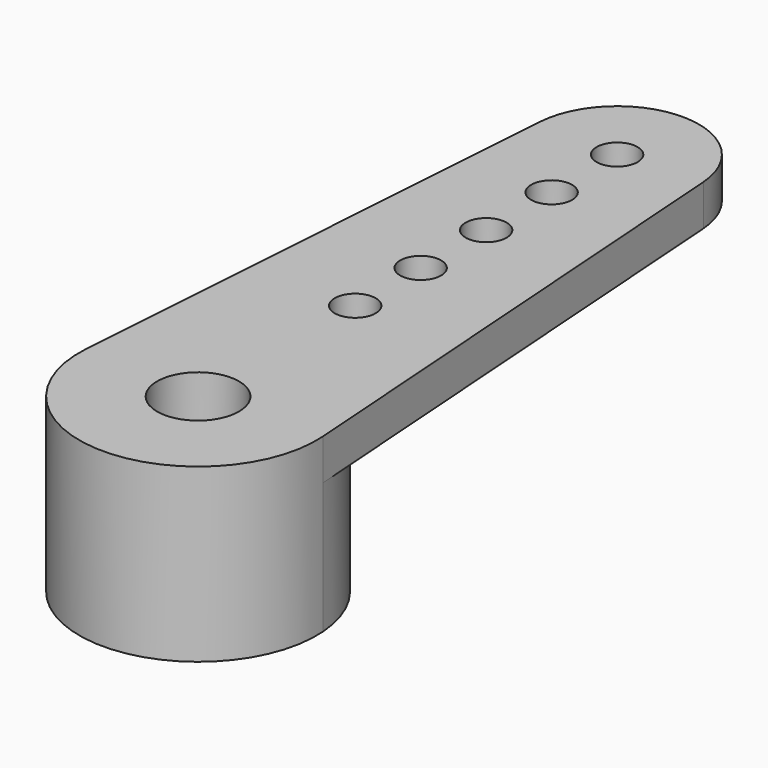
from build123d import *

# Parameters (mm, degrees)
F0_R     = 1
F0_R_2   = 0.5
F1_DEPTH = 4.2
F3_DEPTH = 3.2
F4_R     = 1.85
F4_R_2   = 1
F5_DEPTH = 2.2


with BuildPart() as f1:
    # F0 (on Top) → F1 (new body)
    with BuildSketch(Plane.XY):
        with BuildLine():
            Line((-1.99505, 12.940625), (-2.892823, 0.203906))
            ThreePointArc((-2.892823, 0.203906), (0, -2.9), (2.892823, 0.203906))
            Line((2.892823, 0.203906), (1.99505, 12.940625))
            ThreePointArc((1.99505, 12.940625), (0, 14.8), (-1.99505, 12.940625))
        make_face()
        Circle(F0_R, mode=Mode.SUBTRACT)
        with Locations((0, 4.8)):
            Circle(F0_R_2, mode=Mode.SUBTRACT)
        with Locations((0, 6.8)):
            Circle(F0_R_2, mode=Mode.SUBTRACT)
        with Locations((0, 8.8)):
            Circle(F0_R_2, mode=Mode.SUBTRACT)
        with Locations((0, 10.8)):
            Circle(F0_R_2, mode=Mode.SUBTRACT)
        with Locations((0, 12.8)):
            Circle(F0_R_2, mode=Mode.SUBTRACT)
    extrude(amount=F1_DEPTH)

    # F2 (on face) → F3 (cut)
    with BuildSketch(Plane(origin=(0, 0, 0), x_dir=(1, 0, 0), z_dir=(0, 0, -1))):
        with BuildLine():
            ThreePointArc((2.892823, -0.203906), (0, -2.9), (-2.892823, -0.203906))
            Line((-2.892823, -0.203906), (-1.99505, -12.940625))
            ThreePointArc((-1.99505, -12.940625), (0, -14.8), (1.99505, -12.940625))
            Line((1.99505, -12.940625), (2.892823, -0.203906))
        make_face()
    extrude(amount=-F3_DEPTH, mode=Mode.SUBTRACT)

    # F4 (on face) → F5 (cut)
    with BuildSketch(Plane(origin=(0, 0, 0), x_dir=(1, 0, 0), z_dir=(0, 0, -1))):
        Circle(F4_R)
        Circle(F4_R_2, mode=Mode.SUBTRACT)
    extrude(amount=-F5_DEPTH, mode=Mode.SUBTRACT)


solid = f1.part
